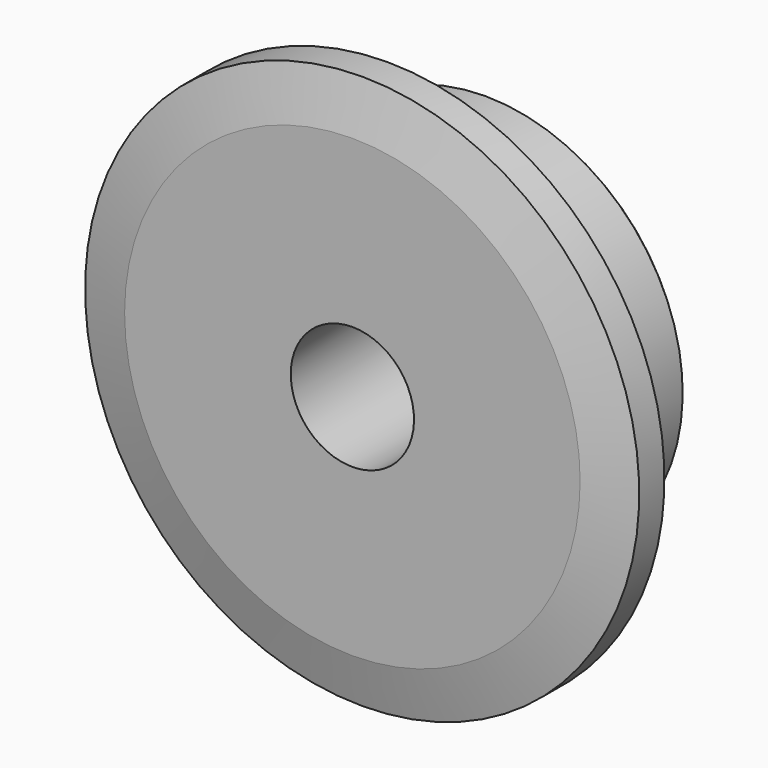
from build123d import *

# Parameters (mm, degrees)
F0_W     = 7.2136
F0_H     = 10.287
F0_H_2   = 17.4625
F0_W_2   = 15.0114
F2_R     = 1.5875
F3_SIZE  = 0.79375
F4_SIZE2 = 6.35
F4_SIZE  = 1.5748


with BuildPart() as f1:
    # F0 (on Right) → F1 (revolve)
    with BuildSketch(Plane.YZ):
        with Locations((3.6068, 30.5435)):
            Rectangle(F0_W, F0_H)
        with Locations((3.6068, 16.66875)):
            Rectangle(F0_W, F0_H_2)
        with Locations((14.7193, 16.66875)):
            Rectangle(F0_W_2, F0_H_2)
    revolve(axis=Axis((0, -8.7804167888, 0), (0, 1, 0)))

    # F2
    f2_edges = [f1.edges().sort_by_distance(p)[0] for p in [
        (0, 7.2136, -25.4),
    ]]
    fillet(f2_edges, radius=F2_R)

    # F3
    f3_edges = [f1.edges().sort_by_distance(p)[0] for p in [
        (0, 22.225, -25.4),
    ]]
    chamfer(f3_edges, length=F3_SIZE)

    # F4
    f4_edges = [f1.edges().sort_by_distance(p)[0] for p in [
        (0, 0, -35.687),
        (0, 7.2136, -35.687),
    ]]
    f4_side = f1.faces().sort_by_distance((0, 3.6068, -35.687))[0]
    chamfer(f4_edges, length=F4_SIZE, length2=F4_SIZE2, reference=f4_side)


solid = f1.part
